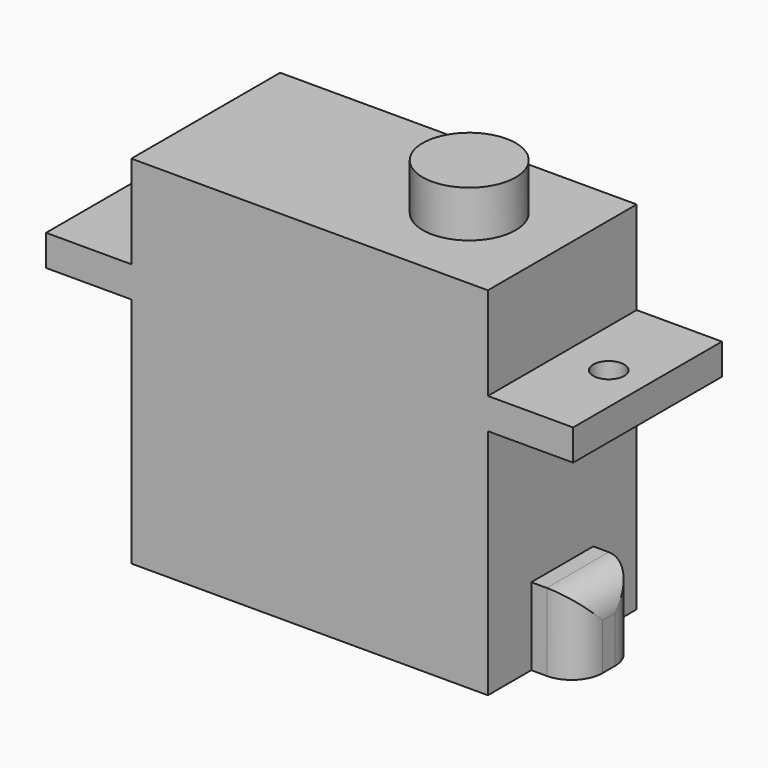
from build123d import *

# Parameters (mm, degrees)
SKETCH_W     = 23
SKETCH_H     = 12
PAD_DEPTH    = 23
SKETCH001_W  = 12
SKETCH001_H  = 2
PAD001_DEPTH = 5.5
SKETCH002_W  = 12
SKETCH002_H  = 2
PAD002_DEPTH = 5.5
SKETCH003_R  = 1
POCKET_DEPTH = 5
SKETCH004_R  = 3
PAD003_DEPTH = 3
SKETCH006_W  = 5
SKETCH006_H  = 5
PAD004_DEPTH = 3
FILLET_R     = 2


with BuildPart() as part:
    # Sketch → Pad (new body)
    with BuildSketch(Plane.XY):
        with Locations((-5.5, 0)):
            Rectangle(SKETCH_W, SKETCH_H)
    extrude(amount=PAD_DEPTH)

    # Sketch001 (on Face2 of Pad) → Pad001 (join)
    with BuildSketch(Plane.YZ.offset(6)):
        with Locations((0, 16)):
            Rectangle(SKETCH001_W, SKETCH001_H)
    extrude(amount=PAD001_DEPTH)

    # Sketch002 (on Face2 of Pad001) → Pad002 (join)
    with BuildSketch(Plane(origin=(-17, 0, 0), x_dir=(0, -1, 0), z_dir=(-1, 0, 0))):
        with Locations((0, 16)):
            Rectangle(SKETCH002_W, SKETCH002_H)
    extrude(amount=PAD002_DEPTH)

    # Sketch003 (on Face12 of Pad002) → Pocket (cut)
    with BuildSketch(Plane.XY.offset(17)):
        with Locations((-20, 0)):
            Circle(SKETCH003_R)
        with Locations((9, 0)):
            Circle(SKETCH003_R)
    extrude(amount=-POCKET_DEPTH, mode=Mode.SUBTRACT)

    # Sketch004 (on Face9 of Pocket) → Pad003 (join)
    with BuildSketch(Plane.XY.offset(23)):
        Circle(SKETCH004_R)
    extrude(amount=PAD003_DEPTH)

    # Sketch006 → Pad004 (join)
    with BuildSketch(Plane.YZ.offset(6)):
        with Locations((0, 2.5)):
            Rectangle(SKETCH006_W, SKETCH006_H)
    extrude(amount=PAD004_DEPTH)

    # Fillet
    fillet_edges = [part.edges().sort_by_distance(p)[0] for p in [
        (9, -2.5, 2.5),
        (9, 2.5, 2.5),
        (9, 0, 5),
    ]]
    fillet(fillet_edges, radius=FILLET_R)


solid = part.part
